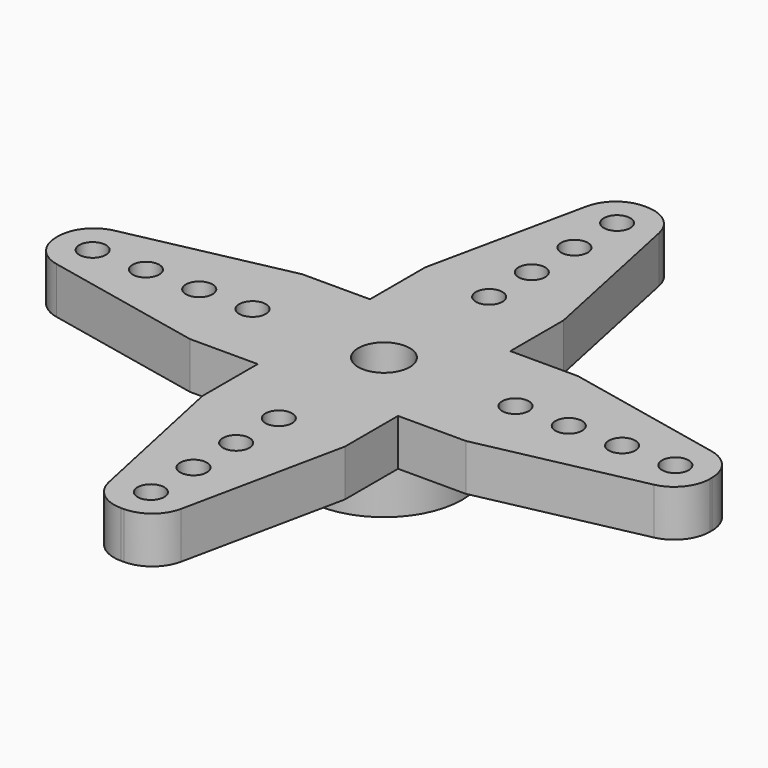
from build123d import *

# Parameters (mm, degrees)
F0_R     = 0.75
F0_R_2   = 1.45
F1_DEPTH = 2.62
F2_R     = 4.4
F2_R_2   = 2.5
F3_DEPTH = 3
F4_DEPTH = 0.17


with BuildPart() as f1:
    # F0 (on Top) → F1 (new body)
    with BuildSketch(Plane.XY):
        with BuildLine():
            Line((3.95, -3.95), (7.7637545764, -3.95))
            Line((7.7637545764, -3.95), (16.8139215854, -2.0355203167))
            ThreePointArc((16.8139215854, -2.0355203167), (17.9536800138, -1.3382178935), (18.4, -0.0788218419))
            Line((18.4, -0.0788218419), (18.4, 0.0788218419))
            ThreePointArc((18.4, 0.0788218419), (17.9536800138, 1.3382178935), (16.8139215854, 2.0355203167))
            Line((16.8139215854, 2.0355203167), (7.7637545764, 3.95))
            Line((7.7637545764, 3.95), (3.95, 3.95))
            Line((3.95, 3.95), (3.95, 7.6887742616))
            Line((3.95, 7.6887742616), (2.033754464, 16.8111469309))
            ThreePointArc((2.033754464, 16.8111469309), (1.3369682429, 17.9527868273), (0.0764710913, 18.4))
            Line((0.0764710913, 18.4), (-0.0814896041, 18.4))
            ThreePointArc((-0.0814896041, 18.4), (-1.3396337634, 17.9546939488), (-2.0375187153, 16.8170732745))
            Line((-2.0375187153, 16.8170732745), (-3.95, 7.8477403149))
            Line((-3.95, 7.8477403149), (-3.95, 3.95))
            Line((-3.95, 3.95), (-7.7637545764, 3.95))
            Line((-7.7637545764, 3.95), (-16.8139215854, 2.0355203167))
            ThreePointArc((-16.8139215854, 2.0355203167), (-17.9536800138, 1.3382178935), (-18.4, 0.0788218419))
            Line((-18.4, 0.0788218419), (-18.4, -0.0788218419))
            ThreePointArc((-18.4, -0.0788218419), (-17.9536800138, -1.3382178935), (-16.8139215854, -2.0355203167))
            Line((-16.8139215854, -2.0355203167), (-7.7637545764, -3.95))
            Line((-7.7637545764, -3.95), (-3.95, -3.95))
            Line((-3.95, -3.95), (-3.95, -7.8477403149))
            Line((-3.95, -7.8477403149), (-2.0375187153, -16.8170732745))
            ThreePointArc((-2.0375187153, -16.8170732745), (-1.3396337634, -17.9546939488), (-0.0814896041, -18.4))
            Line((-0.0814896041, -18.4), (0.0764710913, -18.4))
            ThreePointArc((0.0764710913, -18.4), (1.3369682429, -17.9527868273), (2.033754464, -16.8111469309))
            Line((2.033754464, -16.8111469309), (3.95, -7.6887742616))
            Line((3.95, -7.6887742616), (3.95, -3.95))
        make_face()
        with Locations((0, -16.4)):
            Circle(F0_R, mode=Mode.SUBTRACT)
        with Locations((0, -13.4)):
            Circle(F0_R, mode=Mode.SUBTRACT)
        with Locations((0, -10.4)):
            Circle(F0_R, mode=Mode.SUBTRACT)
        with Locations((0, -7.4)):
            Circle(F0_R, mode=Mode.SUBTRACT)
        with Locations((-16.4, 0)):
            Circle(F0_R, mode=Mode.SUBTRACT)
        with Locations((-13.4, 0)):
            Circle(F0_R, mode=Mode.SUBTRACT)
        with Locations((-10.4, 0)):
            Circle(F0_R, mode=Mode.SUBTRACT)
        with Locations((-7.4, 0)):
            Circle(F0_R, mode=Mode.SUBTRACT)
        Circle(F0_R_2, mode=Mode.SUBTRACT)
        with Locations((7.4, 0)):
            Circle(F0_R, mode=Mode.SUBTRACT)
        with Locations((0, 7.4)):
            Circle(F0_R, mode=Mode.SUBTRACT)
        with Locations((10.4, 0)):
            Circle(F0_R, mode=Mode.SUBTRACT)
        with Locations((13.4, 0)):
            Circle(F0_R, mode=Mode.SUBTRACT)
        with Locations((16.4, 0)):
            Circle(F0_R, mode=Mode.SUBTRACT)
        with Locations((0, 10.4)):
            Circle(F0_R, mode=Mode.SUBTRACT)
        with Locations((0, 13.4)):
            Circle(F0_R, mode=Mode.SUBTRACT)
        with Locations((0, 16.4)):
            Circle(F0_R, mode=Mode.SUBTRACT)
    extrude(amount=F1_DEPTH)

    # F2 (on face) → F3 (join)
    with BuildSketch(Plane(origin=(0, 0, 0), x_dir=(1, 0, 0), z_dir=(0, 0, -1))):
        Circle(F2_R)
        Circle(F2_R_2, mode=Mode.SUBTRACT)
    extrude(amount=F3_DEPTH)

    # F4 (cut): a face of the model
    f4_faces = [f1.faces().sort_by_distance(p)[0] for p in [
        (-2.4292893219, 0, 0),
    ]]
    extrude(f4_faces, amount=-F4_DEPTH, mode=Mode.SUBTRACT)


solid = f1.part
